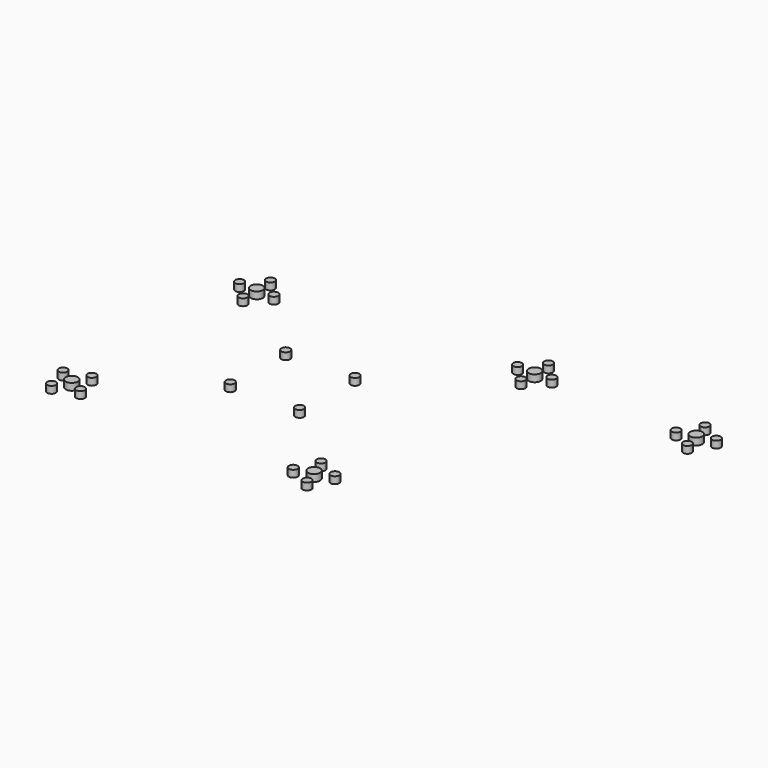
from build123d import *

# Parameters (mm, degrees)
F0_R     = 1.25
F0_R_2   = 1.75
F1_DEPTH = 2
F3_DEPTH = 2


with BuildPart() as f1:
    # F0 (on Top) → F1 (new body)
    with BuildSketch(Plane.XY):
        with Locations((-10, 18)):
            Circle(F0_R)
        with Locations((10, 18)):
            Circle(F0_R)
        with Locations((-10, -2)):
            Circle(F0_R)
        with Locations((10, -2)):
            Circle(F0_R)
        with Locations((-36.313325, -18.988749)):
            Circle(F0_R)
        with Locations((-34.257684, -25.673301)):
            Circle(F0_R)
        with Locations((-38.62778, -23.358846)):
            Circle(F0_R_2)
        with Locations((-42.997877, -21.044391)):
            Circle(F0_R)
        with Locations((-40.942236, -27.728943)):
            Circle(F0_R)
        with Locations((30.064448, -19.351691)):
            Circle(F0_R)
        with Locations((36.402703, -22.307268)):
            Circle(F0_R)
        with Locations((27.108872, -25.689946)):
            Circle(F0_R)
        with Locations((33.447126, -28.645522)):
            Circle(F0_R)
        with Locations((31.755787, -23.998607)):
            Circle(F0_R_2)
        with Locations((-29.010035, 37.490986)):
            Circle(F0_R)
        with Locations((-33.955179, 32.545842)):
            Circle(F0_R)
        with Locations((-33.955179, 37.490986)):
            Circle(F0_R_2)
        with Locations((-33.955179, 42.43613)):
            Circle(F0_R)
        with Locations((-38.900323, 37.490986)):
            Circle(F0_R)
        with Locations((89.161098, 38.862882)):
            Circle(F0_R)
        with Locations((83.104558, 42.359627)):
            Circle(F0_R)
        with Locations((87.8812, 43.639525)):
            Circle(F0_R_2)
        with Locations((92.657843, 44.919422)):
            Circle(F0_R)
        with Locations((86.601303, 48.416167)):
            Circle(F0_R)
        with Locations((40.196721, 49.952447)):
            Circle(F0_R)
        with Locations((40.196721, 45.007303)):
            Circle(F0_R_2)
        with Locations((35.251577, 45.007303)):
            Circle(F0_R)
        with Locations((40.196721, 40.062159)):
            Circle(F0_R)
        with Locations((45.141866, 45.007303)):
            Circle(F0_R)
    extrude(amount=F1_DEPTH)

    # F2 (on face) → F3 (cut)
    with BuildSketch(Plane.XY.offset(2)):
        with BuildLine():
            Line((-1.356226, -13.894977), (1.01106, -13.894977))
            ThreePointArc((1.01106, -13.894977), (2.425274, -13.309191), (3.01106, -11.894977))
            Line((3.01106, -11.894977), (3.01106, 16.380715))
            ThreePointArc((3.01106, 16.380715), (2.425274, 17.794928), (1.01106, 18.380715))
            Line((1.01106, 18.380715), (-1.356226, 18.380715))
            ThreePointArc((-1.356226, 18.380715), (-2.77044, 17.794928), (-3.356226, 16.380715))
            Line((-3.356226, 16.380715), (-3.356226, -11.894977))
            ThreePointArc((-3.356226, -11.894977), (-2.77044, -13.309191), (-1.356226, -13.894977))
        make_face()
    extrude(amount=-F3_DEPTH, mode=Mode.SUBTRACT)


solid = f1.part
